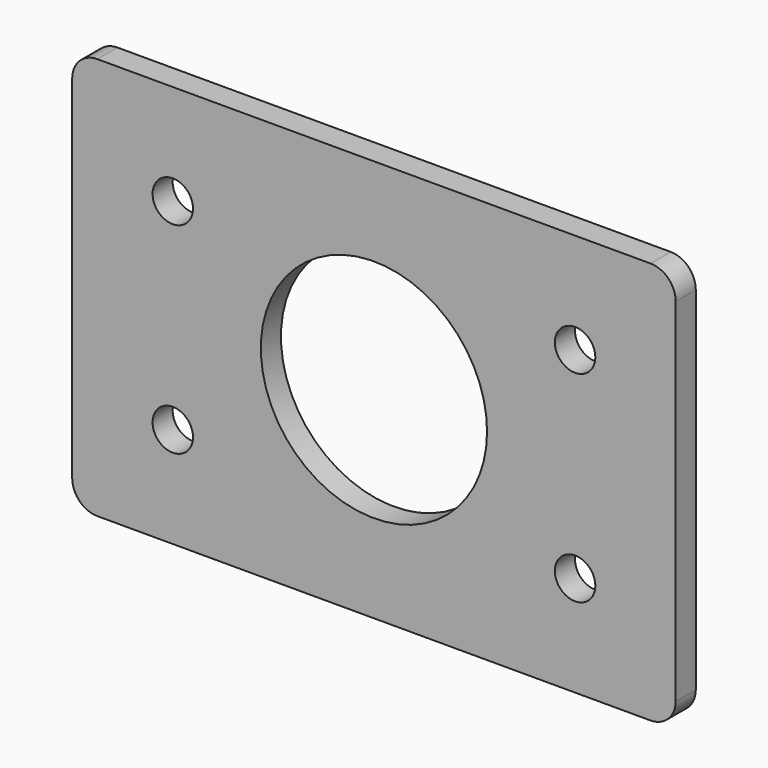
from build123d import *

# Parameters (mm, degrees)
F0_W     = 76.2
F0_H     = 50.8
F0_R     = 2.5527
F0_R_2   = 14.28115
F1_DEPTH = 3.175
F2_R     = 3.175


with BuildPart() as f1:
    # F0 (on Front) → F1 (new body)
    with BuildSketch(Plane.XZ):
        Rectangle(F0_W, F0_H)
        with Locations((-25.4, -12.7)):
            Circle(F0_R, mode=Mode.SUBTRACT)
        with Locations((25.4, -12.7)):
            Circle(F0_R, mode=Mode.SUBTRACT)
        Circle(F0_R_2, mode=Mode.SUBTRACT)
        with Locations((-25.4, 12.7)):
            Circle(F0_R, mode=Mode.SUBTRACT)
        with Locations((25.4, 12.7)):
            Circle(F0_R, mode=Mode.SUBTRACT)
    extrude(amount=F1_DEPTH)

    # F2
    f2_edges = [f1.edges().sort_by_distance(p)[0] for p in [
        (-38.1, -1.5875, 25.4),
        (-38.1, -1.5875, -25.4),
        (38.1, -1.5875, -25.4),
        (38.1, -1.5875, 25.4),
    ]]
    fillet(f2_edges, radius=F2_R)


solid = f1.part
